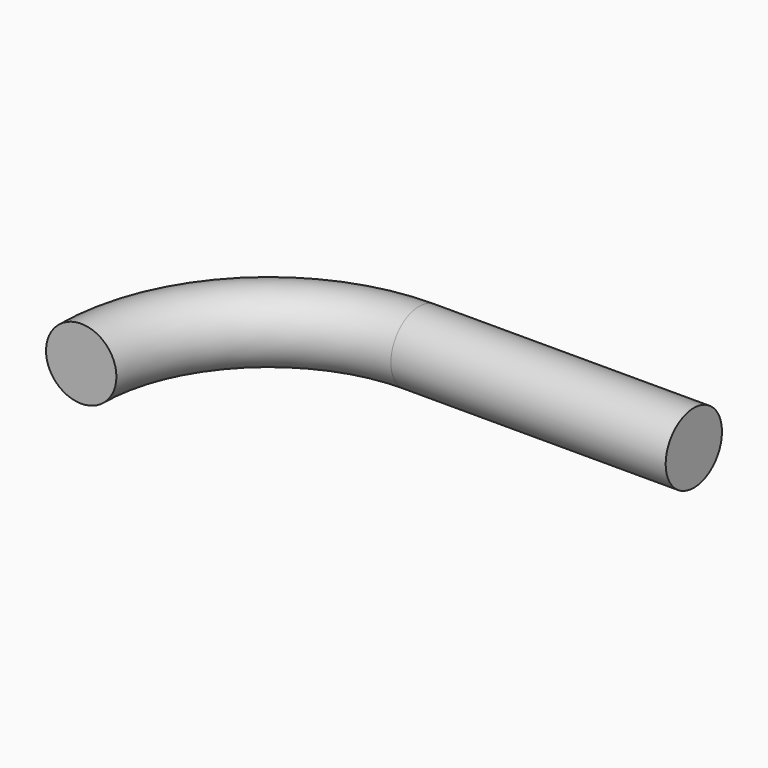
from build123d import *

# Parameters (mm, degrees)
F1_R = 7.5


with BuildPart() as f2:
    # F2: sweep along a path in F0
    with BuildLine(Plane.XY) as f2_path:
        Line((0, 40), (-58.564595, 40))
        ThreePointArc((-58.564595, 40), (-86.848866, 28.284271), (-98.564595, 0))
    # F1 (on Front) → F2 (sweep)
    with BuildSketch(Plane.XZ):
        with Locations((-98.564595, 0)):
            Circle(F1_R)
    sweep(path=f2_path.line)


solid = f2.part
